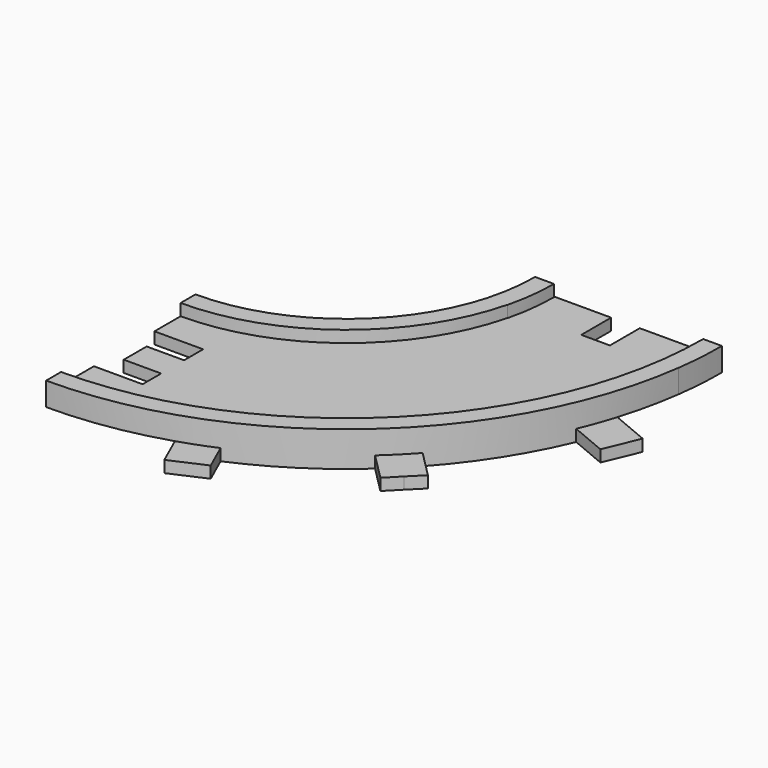
from build123d import *

# Parameters (mm, degrees)
F1_DEPTH  = 3.175
F4_DEPTH  = 3.175
F6_DEPTH  = 6.35
F7_DEPTH  = 3.175
F9_DEPTH  = 25.4
F11_DEPTH = 3.175
F13_DEPTH = 3.175
F14_DEPTH = 3.175
F15_DEPTH = 6.351


with BuildPart() as f1:
    # F0 (on Top) → F1 (new body)
    with BuildSketch(Plane.XY):
        with BuildLine():
            Line((0, -51.2956328023), (0, -102.09075941))
            ThreePointArc((0, -102.09075941), (72.1890682753, -72.1890682753), (102.09075941, 0))
            Line((102.09075941, 0), (51.2956328023, 0))
            ThreePointArc((51.2956328023, 0), (36.2714897998, -36.2714897998), (0, -51.2956328023))
        make_face()
    extrude(amount=F1_DEPTH)

    # F3 (on face) → F4 (join)
    with BuildSketch(Plane.XY.offset(3.175)):
        with BuildLine():
            ThreePointArc((0, -56.3756328023), (39.8635922482, -39.8635922482), (56.3756328023, 0))
            Line((56.3756328023, 0), (51.3330261441, 0))
            ThreePointArc((51.3330261441, 0), (36.2979308853, -36.2979308853), (0, -51.3330261441))
            Line((0, -51.3330261441), (0, -56.3756328023))
        make_face()
        with BuildLine():
            Line((102.09075941, 0), (97.01075941, 0))
            ThreePointArc((97.01075941, 0), (68.5969658269, -68.5969658269), (0, -97.01075941))
            Line((0, -97.01075941), (0, -102.09075941))
            ThreePointArc((0, -102.09075941), (72.1890682753, -72.1890682753), (102.09075941, 0))
        make_face()
    extrude(amount=F4_DEPTH)

    # F5 (on Top) → F6 (join)
    with BuildSketch(Plane.XY):
        with BuildLine():
            ThreePointArc((54.7619331998, -13.660392724), (56.0189261095, -6.8815386855), (56.4400182242, 0))
            Line((56.4400182242, 0), (51.3051767249, 0))
            ThreePointArc((51.3051767249, 0), (50.8400637591, -6.8926827684), (49.4531579316, -13.660392724))
            Line((49.4531579316, -13.660392724), (54.7619331998, -13.660392724))
        make_face()
        with BuildLine():
            Line((102.1051767249, 0), (97.1390098326, 0))
            ThreePointArc((97.1390098326, 0), (96.8973822865, -6.8472284381), (96.1737017167, -13.660392724))
            Line((96.1737017167, -13.660392724), (101.1872560388, -13.660392724))
            ThreePointArc((101.1872560388, -13.660392724), (101.8754380952, -6.8455990928), (102.1051767249, 0))
        make_face()
    extrude(amount=F6_DEPTH)

    # F2 (on Top) → F7 (join)
    with BuildSketch(Plane.XY):
        Polygon((65.3862244444, -13.4132344524), (65.3862244444, 0.2373858813), (51.3049019501, 0.2373858813), (51.3049019501, -13.4632168472), align=None)
        Polygon((100.5855267867, 0.2373858813), (85.8938746733, 0.2373858813), (85.9641355587, -13.4132344524), (100.5855267867, -13.4132344524), align=None)
    extrude(amount=F7_DEPTH)

    # F8 (on face) → F9 (cut)
    with BuildSketch(Plane.XY.offset(3.175)):
        Polygon((0, -85.8303158734), (13.2304336887, -85.8303158734), (13.2304336887, -79.5142199461), (6.7552071823, -79.5142199461), (3.0578118576, -79.5142199461), (3.0578118576, -71.7228521654), (6.7552071823, -71.7228521654), (13.2304336887, -71.7228521654), (13.2304336887, -65.2524047592), (0, -65.2524047592), align=None)
    extrude(amount=-F9_DEPTH, mode=Mode.SUBTRACT)

    # F10 (on face) → F11 (join)
    with BuildSketch(Plane(origin=(0, 0, 0), x_dir=(1, 0, 0), z_dir=(0, 0, -1))):
        with BuildLine():
            ThreePointArc((39.6434592285, 32.5520826521), (37.980845771, 34.4774897449), (36.2248193412, 36.3181002847))
            Line((36.2248193412, 36.3181002847), (29.0498583475, 29.1246633635))
            Line((29.0498583475, 29.1246633635), (32.646576808, 25.5371828667))
            Line((32.646576808, 25.5371828667), (39.6434592285, 32.5520826521))
        make_face()
        with BuildLine():
            Line((29.0498583475, 29.1246633635), (36.2248193412, 36.3181002847))
            ThreePointArc((36.2248193412, 36.3181002847), (34.3796988436, 38.0693873344), (32.4500223073, 39.7270436459))
            Line((32.4500223073, 39.7270436459), (25.4531398869, 32.7121438604))
            Line((25.4531398869, 32.7121438604), (29.0498583475, 29.1246633635))
        make_face()
        with BuildLine():
            Line((36.2248193412, 36.3181002847), (72.0961827352, 72.2818344532))
            ThreePointArc((72.0961827352, 72.2818344532), (70.2749350461, 74.0537417095), (68.4101530773, 75.7797737714))
            Line((68.4101530773, 75.7797737714), (32.4500223073, 39.7270436459))
            ThreePointArc((32.4500223073, 39.7270436459), (34.3796988436, 38.0693873344), (36.2248193412, 36.3181002847))
        make_face()
        with BuildLine():
            ThreePointArc((75.6035899985, 68.6048127777), (73.8727679087, 70.4651496728), (72.0961827352, 72.2818344532))
            Line((72.0961827352, 72.2818344532), (36.2248193412, 36.3181002847))
            ThreePointArc((36.2248193412, 36.3181002847), (37.980845771, 34.4774897449), (39.6434592285, 32.5520826521))
            Line((39.6434592285, 32.5520826521), (75.6035899985, 68.6048127777))
        make_face()
        with BuildLine():
            Line((79.271143729, 79.4752713743), (72.0961827352, 72.2818344532))
            ThreePointArc((72.0961827352, 72.2818344532), (73.8727679087, 70.4651496728), (75.6035899985, 68.6048127777))
            Line((75.6035899985, 68.6048127777), (82.8785053866, 75.8984614814))
            Line((82.8785053866, 75.8984614814), (79.271143729, 79.4752713743))
        make_face()
        with BuildLine():
            ThreePointArc((68.4101530773, 75.7797737714), (70.2749350461, 74.0537417095), (72.0961827352, 72.2818344532))
            Line((72.0961827352, 72.2818344532), (79.271143729, 79.4752713743))
            Line((79.271143729, 79.4752713743), (75.7328631666, 83.1213402502))
            Line((75.7328631666, 83.1213402502), (68.4101530773, 75.7797737714))
        make_face()
        with BuildLine():
            Line((20.0341812257, 47.2215366883), (40.6881574418, 93.6322433828))
            ThreePointArc((40.6881574418, 93.6322433828), (35.9596571955, 95.5480309127), (31.1413521737, 97.2251991086))
            Line((31.1413521737, 97.2251991086), (10.2418471319, 50.2627746142))
            ThreePointArc((10.2418471319, 50.2627746142), (15.2141958482, 48.9874493037), (20.0341812257, 47.2215366883))
        make_face()
        with BuildLine():
            ThreePointArc((31.1413521737, 97.2251991086), (35.9596571955, 95.5480309127), (40.6881574418, 93.6322433828))
            Line((40.6881574418, 93.6322433828), (44.0618023276, 101.2130230665))
            Line((44.0618023276, 101.2130230665), (34.7585338749, 105.353220427))
            Line((34.7585338749, 105.353220427), (31.1413521737, 97.2251991086))
        make_face()
        with BuildLine():
            Line((16.5176168084, 39.3196083605), (20.0341812257, 47.2215366883))
            ThreePointArc((20.0341812257, 47.2215366883), (15.2141958482, 48.9874493037), (10.2418471319, 50.2627746142))
            Line((10.2418471319, 50.2627746142), (7.7137911807, 44.5820833017))
            Line((7.7137911807, 44.5820833017), (16.5176168084, 39.3196083605))
        make_face()
        with BuildLine():
            ThreePointArc((50.2968928634, 10.0729594896), (49.0339423103, 15.0636796999), (47.2771132537, 19.902675875))
            Line((47.2771132537, 19.902675875), (38.7149937451, 16.3121093065))
            Line((38.7149937451, 16.3121093065), (43.1567628434, 7.0787111473))
            Line((43.1567628434, 7.0787111473), (50.2968928634, 10.0729594896))
        make_face()
        with BuildLine():
            ThreePointArc((97.6098508897, 29.9138791566), (95.9858944102, 34.7740022313), (94.1201154327, 39.5465172658))
            Line((94.1201154327, 39.5465172658), (47.2771132537, 19.902675875))
            ThreePointArc((47.2771132537, 19.902675875), (49.0339423103, 15.0636796999), (50.2968928634, 10.0729594896))
            Line((50.2968928634, 10.0729594896), (97.6098508897, 29.9138791566))
        make_face()
        with BuildLine():
            Line((104.0109246969, 43.6942763627), (94.1201154327, 39.5465172658))
            ThreePointArc((94.1201154327, 39.5465172658), (95.9858944102, 34.7740022313), (97.6098508897, 29.9138791566))
            Line((97.6098508897, 29.9138791566), (107.9681979582, 34.2577025116))
            Line((107.9681979582, 34.2577025116), (104.0109246969, 43.6942763627))
        make_face()
    extrude(amount=F11_DEPTH)

    # F12 (on face) → F13 (join)
    with BuildSketch(Plane(origin=(0, 0, 0), x_dir=(1, 0, 0), z_dir=(0, 0, -1))):
        Polygon((65.3862244444, 0), (65.3862244444, -0.2373858813), (85.8938746733, -0.2373858813), (85.8950965183, 0), align=None)
    extrude(amount=-F13_DEPTH)

    # F14 (add): faces of the model
    f14_faces = [f1.faces().sort_by_distance(p)[0] for p in [
        (67.5252079874, -42.3895565008, 0),
        (42.5870000815, -67.3227346229, 0),
    ]]
    extrude(f14_faces, amount=F14_DEPTH)

    # F2 (on Top) → F15 (cut, through all)
    with BuildSketch(Plane.XY):
        Polygon((79.5788919434, -9.9109848417), (79.5788919434, -6.2948371671), (79.5788919434, 0.2373858813), (71.7875241627, 0.2373858813), (71.7875241627, -6.2948371671), (71.7875241627, -9.9109848417), align=None)
    extrude(amount=F15_DEPTH, mode=Mode.SUBTRACT)


solid = f1.part
